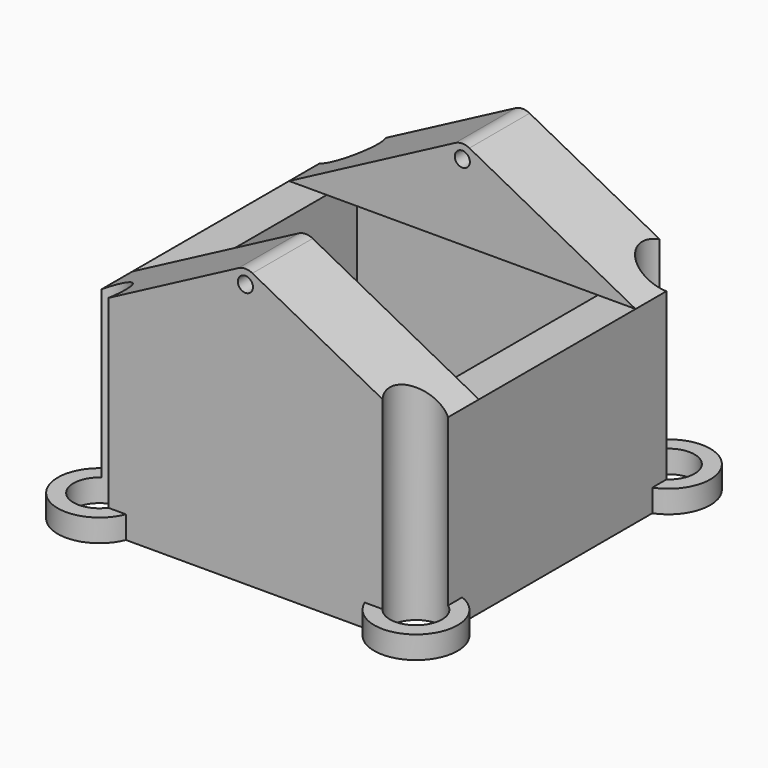
from build123d import *

# Parameters (mm, degrees)
F0_R      = 1.65
F1_DEPTH  = 25
F4_DEPTH  = 23
F7_DEPTH  = 13
F5_R      = 3.466922
F8_DEPTH  = 36
F6_R      = 5.544206
F6_R_2    = 3.466922
F9_DEPTH  = 3
F2_W      = 36
F2_H      = 36
F10_DEPTH = 25
F11_R     = 2


with BuildPart() as f1:
    # F0 (on Top) → F1 (new body)
    with BuildSketch(Plane.XY):
        Polygon((23, 23), (0, 23), (-23, 23), (-23, 0), (-23, -23), (0, -23), (23, -23), (23, 0), align=None)
        with Locations((-20.221745, -20.221745)):
            Circle(F0_R, mode=Mode.SUBTRACT)
        with Locations((20.221745, -20.221745)):
            Circle(F0_R, mode=Mode.SUBTRACT)
        with Locations((-20.221745, 20.221745)):
            Circle(F0_R, mode=Mode.SUBTRACT)
        with Locations((20.221745, 20.221745)):
            Circle(F0_R, mode=Mode.SUBTRACT)
    extrude(amount=F1_DEPTH)

    # F3 (on Front) → F4 (join, symmetric)
    with BuildSketch(Plane.XZ):
        Polygon((-23, 25), (0, 25), (23, 25), (0, 37.124356), align=None)
        with BuildLine():
            ThreePointArc((0, 36.037711), (1, 35.037711), (0, 34.037711))
            ThreePointArc((0, 34.037711), (-1, 35.037711), (0, 36.037711))
        make_face(mode=Mode.SUBTRACT)
    extrude(amount=F4_DEPTH, both=True)

    # F3 (on Front) → F7 (cut, symmetric)
    with BuildSketch(Plane.XZ):
        Polygon((-23, 25), (0, 25), (23, 25), (0, 37.124356), align=None)
        with BuildLine():
            ThreePointArc((0, 36.037711), (1, 35.037711), (0, 34.037711))
            ThreePointArc((0, 34.037711), (-1, 35.037711), (0, 36.037711))
        make_face(mode=Mode.SUBTRACT)
    extrude(amount=F7_DEPTH, both=True, mode=Mode.SUBTRACT)

    # F5 (on Top) → F8 (cut)
    with BuildSketch(Plane.XY):
        with Locations((-21.004396, 20.949436)):
            Circle(F5_R)
        with Locations((21.004396, 20.949436)):
            Circle(F5_R)
        with Locations((21.004396, -20.949436)):
            Circle(F5_R)
        with Locations((-21.004396, -20.949436)):
            Circle(F5_R)
    extrude(amount=F8_DEPTH, mode=Mode.SUBTRACT)

    # F6 (on Top) → F9 (join)
    with BuildSketch(Plane.XY):
        with Locations((-21.004396, 20.949436)):
            Circle(F6_R)
        with Locations((-21.004396, 20.949436)):
            Circle(F6_R_2, mode=Mode.SUBTRACT)
        with Locations((21.004396, 20.949436)):
            Circle(F6_R)
        with Locations((21.004396, 20.949436)):
            Circle(F6_R_2, mode=Mode.SUBTRACT)
        with Locations((21.004396, -20.949436)):
            Circle(F6_R)
        with Locations((21.004396, -20.949436)):
            Circle(F6_R_2, mode=Mode.SUBTRACT)
        with Locations((-21.004396, -20.949436)):
            Circle(F6_R)
        with Locations((-21.004396, -20.949436)):
            Circle(F6_R_2, mode=Mode.SUBTRACT)
    extrude(amount=F9_DEPTH)

    # F2 (on face) → F10 (cut)
    with BuildSketch(Plane(origin=(0, 0, 0), x_dir=(1, 0, 0), z_dir=(0, 0, -1))):
        Rectangle(F2_W, F2_H)
    extrude(amount=-F10_DEPTH, mode=Mode.SUBTRACT)

    # F11
    f11_edges = [f1.edges().sort_by_distance(p)[0] for p in [
        (0, 18, 37.124356),
        (0, -18, 37.124356),
    ]]
    fillet(f11_edges, radius=F11_R)


solid = f1.part
